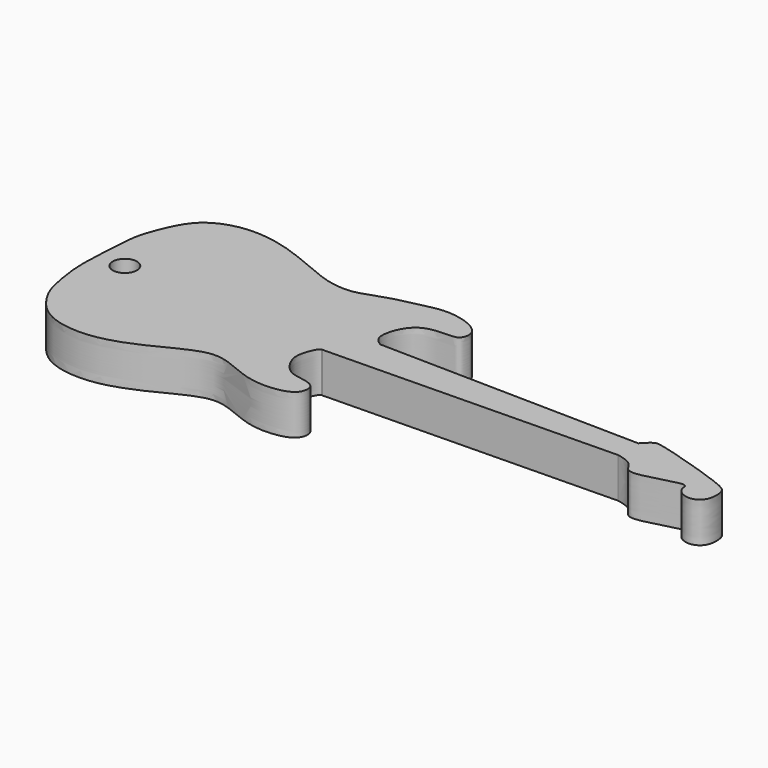
from build123d import *

# Parameters (mm, degrees)
F0_R     = 1.5
F1_DEPTH = 5


with BuildPart() as f1:
    # F0 (on Top) → F1 (new body)
    with BuildSketch(Plane.XY):
        with BuildLine():
            Line((86.6535813324, 30.6458315305), (54.0960568439, 31.2354041307))
            add(Edge.make_bspline(
                [(54.0960568439, 31.2354041307), (53.7108424738, 31.4796074933), (52.9795490613, 32.0910616748), (53.0757524116, 33.6182548027), (53.6510092908, 35.2538690141), (55.1426747926, 36.8700037629), (57.988030549, 36.9293876523), (59.4387707384, 36.9754030788), (59.8359560677, 38.8778831212), (57.7276946028, 40.3227610047), (54.4682866045, 40.8459470761), (51.7030704907, 40.0206461456), (48.4156799522, 39.4561387138), (45.5416643828, 38.0881194241), (42.4518497575, 38.1529493762), (39.2692564467, 39.3785586973), (34.7032583499, 41.4009819009), (30.2916390581, 42.3048888161), (26.5354373876, 41.7710767321), (23.5654107943, 39.913901683), (22.0223126259, 36.0874627167), (21.2344551774, 33.8128646489), (21.043614833, 28.6399002088), (20.8641171908, 25.5446703853), (21.4260344325, 21.9301036933), (22.0570877022, 19.4882506755), (24.2103379885, 16.3698033912), (27.6042662265, 14.958278371), (32.1002329286, 14.9904256501), (36.7576532067, 16.9257838317), (39.5184877775, 18.4602978525), (42.7895786573, 19.8238570361), (45.670617095, 18.8848759102), (48.7664012251, 17.4469965682), (52.1376331943, 17.4116477251), (54.4682898245, 18.2772004157), (54.6236557857, 20.4369677856), (52.6089241911, 20.8694620306), (50.7979874448, 21.0973547457), (49.3434638511, 23.1296209202), (49.1684898651, 24.8334433555), (49.9706268874, 26.7048986925), (50.2760524275, 26.8392323715), (50.3005821209, 26.8457944087)],
                knots=[0, 0, 0, 0, 0.016862929, 0.0342651186, 0.0536343156, 0.0748288424, 0.0994616973, 0.1160549417, 0.1335091399, 0.1558261755, 0.182487913, 0.2075610119, 0.234408305, 0.2606058445, 0.2857930918, 0.3129795717, 0.3460607019, 0.3774541918, 0.4056198562, 0.4326700708, 0.4617165954, 0.485274107, 0.5181881076, 0.545108696, 0.572608069, 0.5962662075, 0.6240985675, 0.6518399823, 0.6829596717, 0.7158622908, 0.7424945588, 0.7692913006, 0.7944304464, 0.8217169289, 0.8488232953, 0.8708527178, 0.8891368763, 0.9086670817, 0.9287012294, 0.9507826071, 0.9708340657, 0.9918281573, 0.9937135704, 0.9937135704, 0.9937135704, 0.9937135704], degree=3))
            add(Edge.make_bspline(
                [(50.3005821209, 26.8457944087), (50.3404489766, 26.8564593522), (50.3786272545, 26.8552169996), (50.4159310688, 26.8478748499)],
                knots=[0.9937135704, 0.9937135704, 0.9937135704, 0.9937135704, 0.9967778359, 0.9967778359, 0.9967778359, 0.9967778359], degree=3))
            Line((50.4159310688, 26.8478748499), (86.6535813324, 27.5014594789))
            add(Edge.make_bspline(
                [(86.6535813324, 30.6458315305), (87.0300809123, 31.0504765374), (87.751130182, 31.8254281104), (88.9629536712, 31.7767668557), (98.4300724155, 28.8779131189), (99.4224004407, 27.850602119), (99.4922000593, 25.6835030291), (98.1521779849, 24.5905708269), (96.5589307736, 24.8918411887), (95.8316166416, 25.8134288551), (95.9238409568, 26.6575089316), (94.7631462728, 26.6390642227), (92.3900974892, 25.8462584714), (90.0028434644, 25.3621974466), (89.1902738413, 25.7362816562), (88.7437661381, 26.7726896695), (87.5846147226, 27.3144348422), (86.9499238065, 27.441930671), (86.6535813324, 27.5014594789)],
                knots=[0, 0, 0, 0, 0.0593735813, 0.1137086947, 0.2668683116, 0.3262418939, 0.3928173869, 0.4533367926, 0.5129127899, 0.5641231427, 0.6031306384, 0.6482755931, 0.7288343719, 0.8049528127, 0.8475825479, 0.8976797602, 0.952225829, 1, 1, 1, 1], degree=3))
        make_face()
        with Locations((24.4427712714, 28.6347285574)):
            Circle(F0_R, mode=Mode.SUBTRACT)
        with BuildLine():
            add(Edge.make_bspline(
                [(50.3005821209, 26.8457944087), (50.3404489766, 26.8564593522), (50.3786272545, 26.8552169996), (50.4159310688, 26.8478748499)],
                knots=[0.9937135704, 0.9937135704, 0.9937135704, 0.9937135704, 0.9967778359, 0.9967778359, 0.9967778359, 0.9967778359], degree=3))
            Line((50.3005821209, 26.8457944087), (50.4159310688, 26.8478748499))
        make_face()
    extrude(amount=F1_DEPTH)


solid = f1.part
